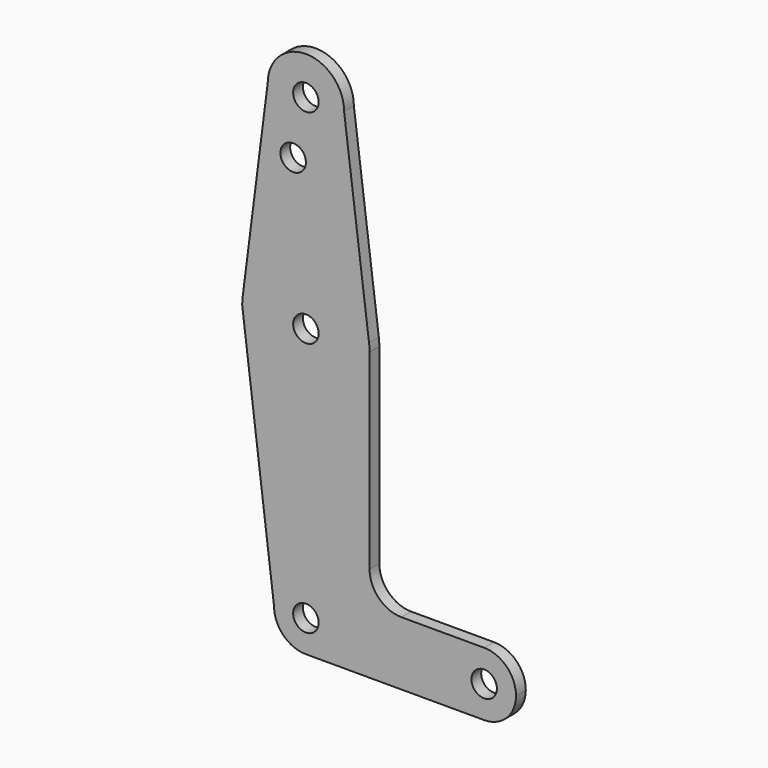
from build123d import *

# Parameters (mm, degrees)
F0_R     = 3.175
F1_DEPTH = 3.048


with BuildPart() as f1:
    # F0 (on Front) → F1 (new body)
    with BuildSketch(Plane.XZ):
        with BuildLine():
            ThreePointArc((-9.525, 114.3), (0, 104.775), (9.525, 114.3))
            ThreePointArc((9.525, 114.3), (0, 123.825), (-9.525, 114.3))
        make_face()
        with Locations((0, 114.3)):
            Circle(F0_R, mode=Mode.SUBTRACT)
        with BuildLine():
            ThreePointArc((-15.747457, 65.508289), (0, 79.375), (15.747457, 65.508289))
            Line((15.747457, 65.508289), (9.525, 114.3))
            ThreePointArc((9.525, 114.3), (0, 104.775), (-9.525, 114.3))
            Line((-9.525, 114.3), (-15.747457, 65.508289))
        make_face()
        with Locations((-3.175, 100.0252)):
            Circle(F0_R, mode=Mode.SUBTRACT)
        with BuildLine():
            ThreePointArc((-15.386538, 59.592308), (1.969051, 47.747589), (15.875, 63.5))
            ThreePointArc((15.875, 63.5), (15.843082, 64.506168), (15.747457, 65.508289))
            ThreePointArc((15.747457, 65.508289), (0, 79.375), (-15.747457, 65.508289))
            ThreePointArc((-15.747457, 65.508289), (-15.843082, 64.506168), (-15.875, 63.5))
            Line((-15.875, 63.5), (-15.386538, 59.592308))
        make_face()
        with Locations((0, 63.5)):
            Circle(F0_R, mode=Mode.SUBTRACT)
        with BuildLine():
            Line((15.875, 15.8877), (15.875, 63.5))
            ThreePointArc((15.875, 63.5), (1.969051, 47.747589), (-15.386538, 59.592308))
            Line((-15.386538, 59.592308), (-7.9375, 0))
            ThreePointArc((-7.9375, 0), (0, 7.9375), (7.9375, 0))
            ThreePointArc((7.9375, 0), (5.61266, -5.61266), (0, -7.9375))
            Line((0, -7.9375), (44.45, -7.9375))
            ThreePointArc((44.45, -7.9375), (36.5125, 0), (44.45, 7.9375))
            Line((44.45, 7.9375), (23.8252, 7.9375))
            ThreePointArc((23.8252, 7.9375), (18.20356, 10.26606), (15.875, 15.8877))
        make_face()
        with BuildLine():
            ThreePointArc((7.9375, 0), (0, 7.9375), (-7.9375, 0))
            ThreePointArc((-7.9375, 0), (-5.61266, -5.61266), (0, -7.9375))
            ThreePointArc((0, -7.9375), (5.61266, -5.61266), (7.9375, 0))
        make_face()
        Circle(F0_R, mode=Mode.SUBTRACT)
        with BuildLine():
            ThreePointArc((52.3875, 0), (50.06266, 5.61266), (44.45, 7.9375))
            ThreePointArc((44.45, 7.9375), (36.5125, 0), (44.45, -7.9375))
            ThreePointArc((44.45, -7.9375), (50.06266, -5.61266), (52.3875, 0))
        make_face()
        with Locations((44.45, 0)):
            Circle(F0_R, mode=Mode.SUBTRACT)
    extrude(amount=-F1_DEPTH)


solid = f1.part
